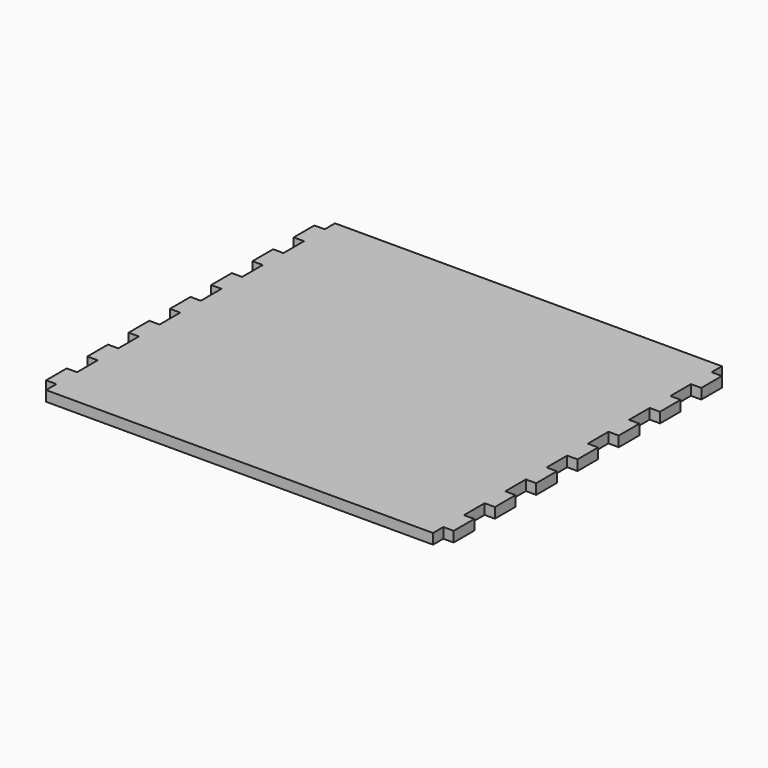
from build123d import *

# Parameters (mm, degrees)
F0_W     = 150
F0_H     = 140
F1_DEPTH = 4
F2_W     = 4
F2_H     = 10
F3_DEPTH = 4


with BuildPart() as f1:
    # F0 (on Top) → F1 (new body)
    with BuildSketch(Plane.XY):
        Rectangle(F0_W, F0_H)
    extrude(amount=F1_DEPTH)

    # F2 (on face) → F3 (join)
    with BuildSketch(Plane.XY.offset(4)):
        with Locations((-77, -60)):
            Rectangle(F2_W, F2_H)
        with Locations((-77, -40)):
            Rectangle(F2_W, F2_H)
        with Locations((-77, -20)):
            Rectangle(F2_W, F2_H)
        with Locations((-77, 0)):
            Rectangle(F2_W, F2_H)
        with Locations((-77, 20)):
            Rectangle(F2_W, F2_H)
        with Locations((-77, 40)):
            Rectangle(F2_W, F2_H)
        with Locations((-77, 60)):
            Rectangle(F2_W, F2_H)
        with Locations((77, 0)):
            Rectangle(F2_W, F2_H)
        with Locations((77, 60)):
            Rectangle(F2_W, F2_H)
        with Locations((77, 20)):
            Rectangle(F2_W, F2_H)
        with Locations((77, -40)):
            Rectangle(F2_W, F2_H)
        with Locations((77, -60)):
            Rectangle(F2_W, F2_H)
        with Locations((77, -20)):
            Rectangle(F2_W, F2_H)
        with Locations((77, 40)):
            Rectangle(F2_W, F2_H)
    extrude(amount=-F3_DEPTH)


solid = f1.part
